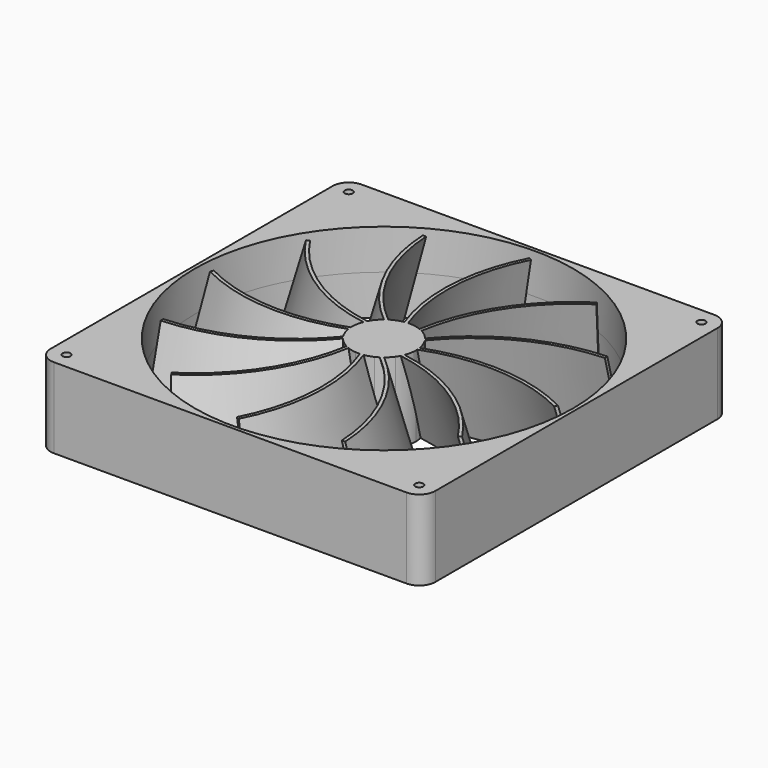
from build123d import *

# Parameters (mm, degrees)
F1_DEPTH      = 12.5
F1_DEPTH_BACK = 12.5
F0_W          = 120
F0_H          = 120
F0_R          = 59
F2_DEPTH      = 12.5
F2_DEPTH_BACK = 12.5
F3_R          = 5
F4_T          = -2.5
F5_D          = 2.5
F8_COUNT      = 12
F8_ANGLE      = 330


with BuildPart() as f1:
    # F0 (on Top) → F1 (new body, two sides)
    with BuildSketch(Plane.XY) as f1_sk:
        with BuildLine():
            ThreePointArc((0.847458, 9.964026), (-7.364597, -6.764814), (10, 0))
            ThreePointArc((10, 0), (7.364597, 6.764814), (0.847458, 9.964026))
        make_face()
    extrude(amount=F1_DEPTH)
    extrude(f1_sk.sketch, amount=-F1_DEPTH_BACK)

    # F7: sweep along a path in F0
    with BuildLine(Plane.XY) as f7_path:
        ThreePointArc((27.052966, 49.602289), (7.20292, 28.25), (0, 0))
    # F6 (on Front) → F7 (sweep)
    with BuildSketch(Plane.XZ):
        Polygon((3.867003, 12.5), (2.831727, 12.5), (-3.867003, -12.5), (-2.831727, -12.5), align=None)
    sweep(path=f7_path.line)

    # F8: F1 ×12 about axis
    f8_axis = Axis((0, 0, -12.5), (0, 0, 1))


with BuildPart() as f2:
    # F0 (on Top) → F2 (new body, two sides)
    with BuildSketch(Plane.XY) as f2_sk:
        Rectangle(F0_W, F0_H)
        Circle(F0_R, mode=Mode.SUBTRACT)
    extrude(amount=F2_DEPTH)
    extrude(f2_sk.sketch, amount=-F2_DEPTH_BACK)

    # F3
    f3_edges = [f2.edges().sort_by_distance(p)[0] for p in [
        (60, -60, 0),
        (-60, -60, 0),
        (-60, 60, 0),
        (60, 60, 0),
    ]]
    fillet(f3_edges, radius=F3_R)

    # F4
    f4_openings = [f2.faces().sort_by_distance(p)[0] for p in [
        (59.830294, 0, -12.5),
    ]]
    offset(amount=F4_T, openings=f4_openings)

    # F5 (through all)
    with Locations(Plane(origin=(0, 0, 0), x_dir=(1, 0, 0), z_dir=(0, 0, -1))):
        with Locations((-55, -55), (55, -55), (55, 55), (-55, 55)):
            Hole(F5_D / 2)


with BuildPart() as f1_1:
    add(f1.part)
    for i in range(1, F8_COUNT):
        add(f1.part.rotate(f8_axis, i * F8_ANGLE / (F8_COUNT - 1)))


solid = Compound([f2.part, f1_1.part])
